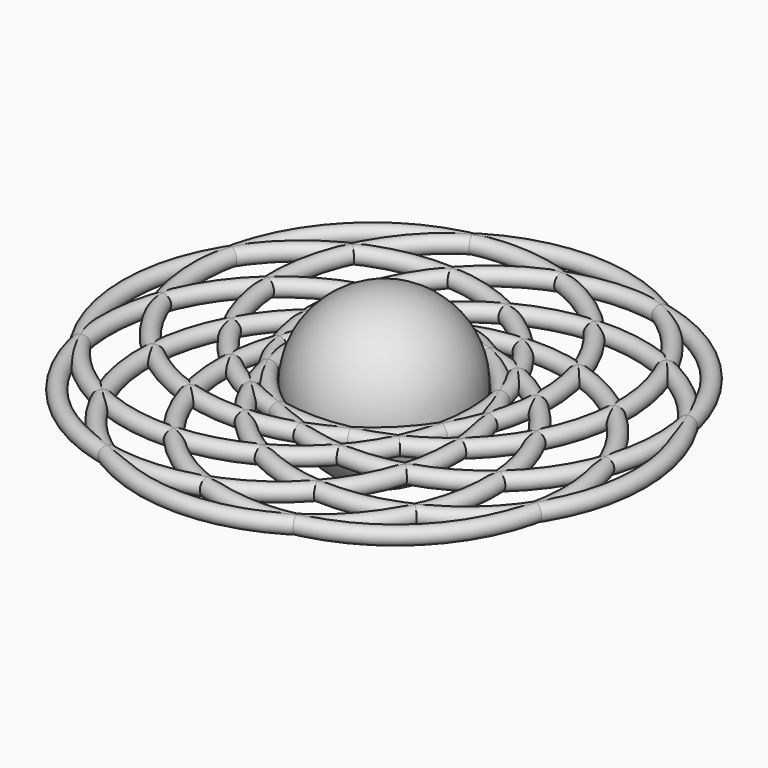
from build123d import *

# Parameters (mm, degrees)
F7_COUNT = 8


with BuildPart() as f1:
    # F0 (on Top) → F1 (revolve)
    with BuildSketch(Plane.XY):
        with BuildLine():
            Line((0, 127), (0, -127))
            ThreePointArc((0, -127), (127, 0), (0, 127))
        make_face()
    revolve(axis=Axis((0, 0, 0), (0, -1, 0)))


with BuildPart() as f5:
    # F5: sweep along a path in F3
    with BuildLine(Plane.XY) as f5_path:
        CenterArc((-127, 0), 266.7, 0, 360)
    # F4 (on Front) → F5 (sweep)
    with BuildSketch(Plane.XZ):
        with BuildLine():
            ThreePointArc((127, 0), (139.7, -12.7), (152.4, 0))
            ThreePointArc((152.4, 0), (139.7, 12.7), (127, 0))
        make_face()
    sweep(path=f5_path.line)


with BuildPart() as f7_1:
    # F7: instance of F5
    add(f5.part.rotate(Axis((0, 0, 46.653561), (0, 0, 1)), 1 * 360 / F7_COUNT))


with BuildPart() as f7_2:
    # F7: instance of F5
    add(f5.part.rotate(Axis((0, 0, 46.653561), (0, 0, 1)), 2 * 360 / F7_COUNT))


with BuildPart() as f7_3:
    # F7: instance of F5
    add(f5.part.rotate(Axis((0, 0, 46.653561), (0, 0, 1)), 3 * 360 / F7_COUNT))


with BuildPart() as f7_4:
    # F7: instance of F5
    add(f5.part.rotate(Axis((0, 0, 46.653561), (0, 0, 1)), 4 * 360 / F7_COUNT))


with BuildPart() as f7_5:
    # F7: instance of F5
    add(f5.part.rotate(Axis((0, 0, 46.653561), (0, 0, 1)), 5 * 360 / F7_COUNT))


with BuildPart() as f7_6:
    # F7: instance of F5
    add(f5.part.rotate(Axis((0, 0, 46.653561), (0, 0, 1)), 6 * 360 / F7_COUNT))


with BuildPart() as f7_7:
    # F7: instance of F5
    add(f5.part.rotate(Axis((0, 0, 46.653561), (0, 0, 1)), 7 * 360 / F7_COUNT))


solid = Compound([f1.part, f5.part, f7_1.part, f7_2.part, f7_3.part, f7_4.part, f7_5.part, f7_6.part, f7_7.part])
